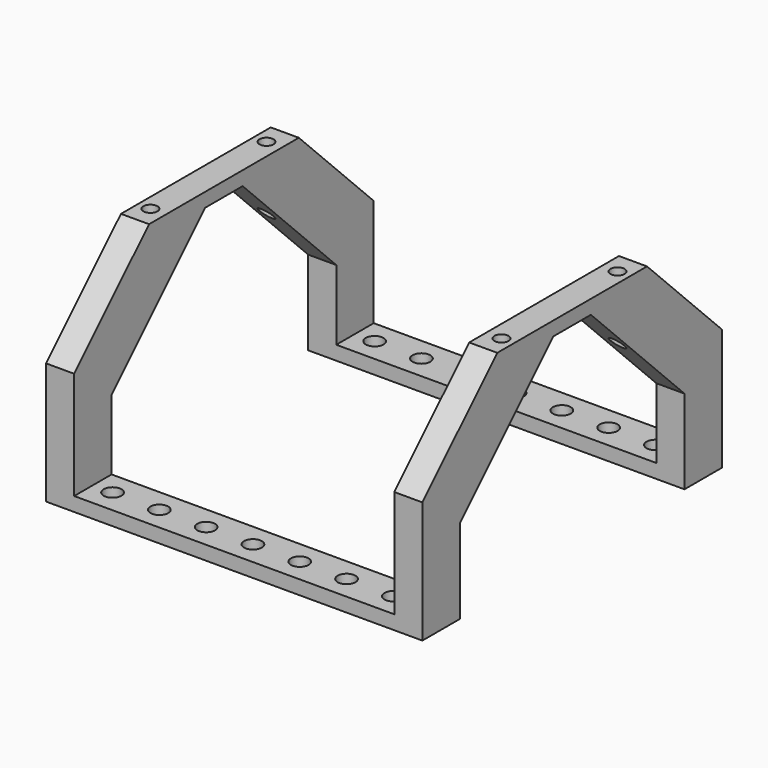
from build123d import *

# Parameters (mm, degrees)
BOX012_W          = 68.4
BOX012_H          = 80
BOX012_DEPTH      = 43
CYLINDER003_R     = 1.5
CYLINDER003_DEPTH = 50
ARRAY005_X_COUNT  = 2
ARRAY005_X_PITCH  = 75
ARRAY005_Y_COUNT  = 2
ARRAY005_Y_PITCH  = 31
CYLINDER004_R     = 1.9
CYLINDER004_DEPTH = 10
ARRAY_X_COUNT     = 7
ARRAY_X_PITCH     = 10
ARRAY_Y_COUNT     = 8
ARRAY_Y_PITCH     = 10
BOX010_W          = 80.4
BOX010_H          = 60
BOX010_DEPTH      = 43
CHAMFER001_SIZE   = 25
BOX011_W          = 68.4
BOX011_H          = 80
BOX011_DEPTH      = 40
BOX009_W          = 80.4
BOX009_H          = 80
BOX009_DEPTH      = 46
CHAMFER002_SIZE   = 20


with BuildPart() as v_cube_extract001:
    # Box012 → Box012 (new body)
    with BuildSketch(Plane(origin=(6, 0, 3), x_dir=(1, 0, 0), z_dir=(0, 0, 1))):
        with Locations((34.2, 40)):
            Rectangle(BOX012_W, BOX012_H)
    extrude(amount=BOX012_DEPTH)


with BuildPart() as screw_hole_array:
    # Cylinder003 → Cylinder003 (new body)
    with BuildSketch(Plane.XY.offset(-40)):
        Circle(CYLINDER003_R)
    extrude(amount=CYLINDER003_DEPTH)

    # Array005 X: screw hole array ×2


with BuildPart() as screw_hole_array_1:
    add(screw_hole_array.part)
    with Locations(*[(i * ARRAY005_X_PITCH, 0, 0) for i in range(1, ARRAY005_X_COUNT)]):
        add(screw_hole_array.part)

    # Array005 Y: screw hole array ×2


with BuildPart() as screw_hole_array_2:
    add(screw_hole_array_1.part)
    with Locations(*[(0, i * ARRAY005_Y_PITCH, 0) for i in range(1, ARRAY005_Y_COUNT)]):
        add(screw_hole_array_1.part)


with BuildPart() as screw_hole_array_3:
    # Array005 placement: moved
    add(screw_hole_array_2.part.moved(Location((2.7, 24.5, 43))))


with BuildPart() as attachment_hole_array:
    # Cylinder004 → Cylinder004 (new body)
    with BuildSketch(Plane.XY):
        Circle(CYLINDER004_R)
    extrude(amount=CYLINDER004_DEPTH)

    # Array X: attachment hole array ×7


with BuildPart() as attachment_hole_array_1:
    add(attachment_hole_array.part)
    with Locations(*[(i * ARRAY_X_PITCH, 0, 0) for i in range(1, ARRAY_X_COUNT)]):
        add(attachment_hole_array.part)

    # Array Y: attachment hole array ×8


with BuildPart() as attachment_hole_array_2:
    add(attachment_hole_array_1.part)
    with Locations(*[(0, i * ARRAY_Y_PITCH, 0) for i in range(1, ARRAY_Y_COUNT)]):
        add(attachment_hole_array_1.part)


with BuildPart() as attachment_hole_array_3:
    # Array placement: moved
    add(attachment_hole_array_2.part.moved(Location((10.2, 5, 0))))


with BuildPart() as v_cube_extract_chamfer:
    # Box010 → Box010 (new body)
    with BuildSketch(Plane(origin=(0, 10, 0), x_dir=(1, 0, 0), z_dir=(0, 0, 1))):
        with Locations((40.2, 30)):
            Rectangle(BOX010_W, BOX010_H)
    extrude(amount=BOX010_DEPTH)

    # Chamfer001
    chamfer001_edges = [v_cube_extract_chamfer.edges().sort_by_distance(p)[0] for p in [
        (40.2, 10, 43),
        (40.2, 70, 43),
    ]]
    chamfer(chamfer001_edges, length=CHAMFER001_SIZE)


with BuildPart() as v_extract_union:
    # Box011 → Box011 (new body)
    with BuildSketch(Plane(origin=(6, 0, 3), x_dir=(1, 0, 0), z_dir=(0, 0, 1))):
        with Locations((34.2, 40)):
            Rectangle(BOX011_W, BOX011_H)
    extrude(amount=BOX011_DEPTH)

    # Fusion005: union v cube extract001, screw hole array, attachment hole array, v cube extract chamfer
    add(v_cube_extract001.part)
    add(screw_hole_array_3.part)
    add(attachment_hole_array_3.part)
    add(v_cube_extract_chamfer.part)


with BuildPart() as v_cut:
    # Box009 → Box009 (new body)
    with BuildSketch(Plane.XY):
        with Locations((40.2, 40)):
            Rectangle(BOX009_W, BOX009_H)
    extrude(amount=BOX009_DEPTH)

    # Chamfer002
    chamfer002_edges = [v_cut.edges().sort_by_distance(p)[0] for p in [
        (40.2, 0, 46),
        (40.2, 80, 46),
    ]]
    chamfer(chamfer002_edges, length=CHAMFER002_SIZE)

    # Cut003002: cut v extract union
    add(v_extract_union.part, mode=Mode.SUBTRACT)


solid = v_cut.part
